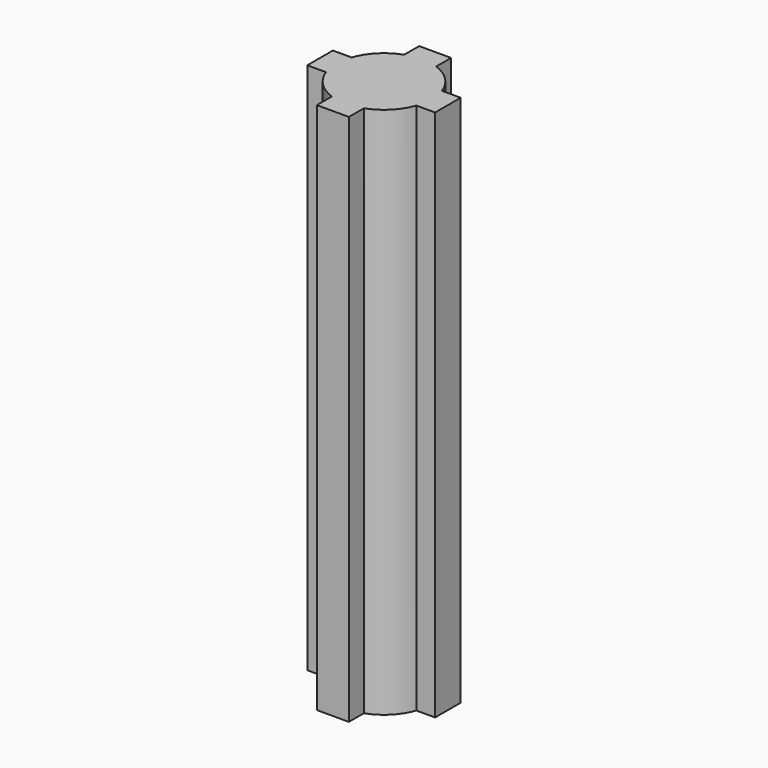
from build123d import *

# Parameters (mm, degrees)
F0_W     = 3
F0_H     = 3
F1_DEPTH = 50


with BuildPart() as f1:
    # F0 (on Top) → F1 (new body)
    with BuildSketch(Plane.XY):
        with BuildLine():
            ThreePointArc((-1.5, 4.2426406871), (0, 4.5), (1.5, 4.2426406871))
            Line((1.5, 4.2426406871), (1.5, 6))
            Line((1.5, 6), (-1.5, 6))
            Line((-1.5, 6), (-1.5, 4.2426406871))
        make_face()
        with BuildLine():
            Line((1.5, -6), (1.5, -4.2426406871))
            ThreePointArc((1.5, -4.2426406871), (0, -4.5), (-1.5, -4.2426406871))
            Line((-1.5, -4.2426406871), (-1.5, -6))
            Line((-1.5, -6), (1.5, -6))
        make_face()
        Rectangle(F0_W, F0_H)
        with BuildLine():
            ThreePointArc((-1.5, -4.2426406871), (0, -4.5), (1.5, -4.2426406871))
            Line((1.5, -4.2426406871), (1.5, -1.5))
            Line((1.5, -1.5), (-1.5, -1.5))
            Line((-1.5, -1.5), (-1.5, -4.2426406871))
        make_face()
        with BuildLine():
            Line((1.5, 1.5), (1.5, 4.2426406871))
            ThreePointArc((1.5, 4.2426406871), (0, 4.5), (-1.5, 4.2426406871))
            Line((-1.5, 4.2426406871), (-1.5, 1.5))
            Line((-1.5, 1.5), (1.5, 1.5))
        make_face()
        with BuildLine():
            Line((1.5, 1.5), (4.2426406871, 1.5))
            ThreePointArc((4.2426406871, 1.5), (3.1819805153, 3.1819805153), (1.5, 4.2426406871))
            Line((1.5, 4.2426406871), (1.5, 1.5))
        make_face()
        with BuildLine():
            ThreePointArc((4.2426406871, -1.5), (4.4351935184, -0.7609589043), (4.5, 0))
            ThreePointArc((4.5, 0), (4.4351935184, 0.7609589043), (4.2426406871, 1.5))
            Line((4.2426406871, 1.5), (1.5, 1.5))
            Line((1.5, 1.5), (1.5, -1.5))
            Line((1.5, -1.5), (4.2426406871, -1.5))
        make_face()
        with BuildLine():
            ThreePointArc((1.5, -4.2426406871), (3.1819805153, -3.1819805153), (4.2426406871, -1.5))
            Line((4.2426406871, -1.5), (1.5, -1.5))
            Line((1.5, -1.5), (1.5, -4.2426406871))
        make_face()
        with BuildLine():
            ThreePointArc((-4.2426406871, -1.5), (-3.1819805153, -3.1819805153), (-1.5, -4.2426406871))
            Line((-1.5, -4.2426406871), (-1.5, -1.5))
            Line((-1.5, -1.5), (-4.2426406871, -1.5))
        make_face()
        with BuildLine():
            Line((-1.5, -1.5), (-1.5, 1.5))
            Line((-1.5, 1.5), (-4.2426406871, 1.5))
            ThreePointArc((-4.2426406871, 1.5), (-4.5, 0), (-4.2426406871, -1.5))
            Line((-4.2426406871, -1.5), (-1.5, -1.5))
        make_face()
        with BuildLine():
            Line((-1.5, 1.5), (-1.5, 4.2426406871))
            ThreePointArc((-1.5, 4.2426406871), (-3.1819805153, 3.1819805153), (-4.2426406871, 1.5))
            Line((-4.2426406871, 1.5), (-1.5, 1.5))
        make_face()
        with BuildLine():
            ThreePointArc((-4.2426406871, -1.5), (-4.5, 0), (-4.2426406871, 1.5))
            Line((-4.2426406871, 1.5), (-6, 1.5))
            Line((-6, 1.5), (-6, -1.5))
            Line((-6, -1.5), (-4.2426406871, -1.5))
        make_face()
        with BuildLine():
            ThreePointArc((4.2426406871, 1.5), (4.4351935184, 0.7609589043), (4.5, 0))
            ThreePointArc((4.5, 0), (4.4351935184, -0.7609589043), (4.2426406871, -1.5))
            Line((4.2426406871, -1.5), (6, -1.5))
            Line((6, -1.5), (6, 1.5))
            Line((6, 1.5), (4.2426406871, 1.5))
        make_face()
    extrude(amount=F1_DEPTH)


solid = f1.part
